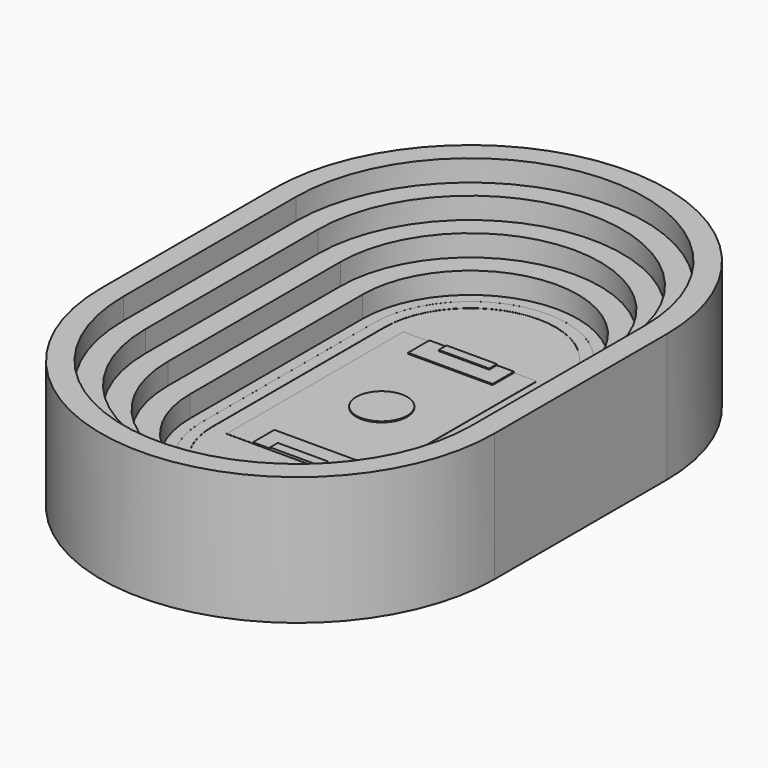
from build123d import *

# Parameters (mm, degrees)
F0_W      = 59.6899963813
F0_H      = 11.43
F1_DEPTH  = 53.34
F2_DEPTH  = 52.07
F3_DEPTH  = 50.8
F4_DEPTH  = 50.546
F5_DEPTH  = 50.7746
F6_DEPTH  = 50.799746
F7_DEPTH  = 76.2
F8_DEPTH  = 101.6
F9_DEPTH  = 127
F10_DEPTH = 152.4


with BuildPart() as f1:
    # F0 (on Top) → F1 (new body)
    with BuildSketch(Plane.XY):
        with Locations((22.1830820161, 160.0484472161)):
            Rectangle(F0_W, F0_H)
    extrude(amount=F1_DEPTH)


with BuildPart() as f1b:
    # F0 (on Top) → F1, piece 2 (new body)
    with BuildSketch(Plane.XY):
        Polygon((-7.6619161746, -84.705963729), (-7.6619161746, -96.135963729), (22.8180838254, -96.135963729), (52.0280802068, -96.135963729), (52.0280802068, -94.8659601103), (52.0280802068, -84.705963729), align=None)
    extrude(amount=F1_DEPTH)


with BuildPart() as f2:
    # F0 (on Top) → F2 (new body)
    with BuildSketch(Plane.XY):
        Polygon((-27.9819161746, -64.385963729), (-27.9819161746, -96.135963729), (-7.6619161746, -96.135963729), (-7.6619161746, -84.705963729), (52.0280802068, -84.705963729), (52.0280802068, -94.8659601103), (52.0280802068, -96.135963729), (67.8483322263, -96.135963729), (72.3480802068, -96.135963729), (72.3480802068, -64.385963729), align=None)
    extrude(amount=F2_DEPTH)


with BuildPart() as f2b:
    # F0 (on Top) → F2, piece 2 (new body)
    with BuildSketch(Plane.XY):
        Polygon((-7.6619161746, 165.7634472161), (-27.9819161746, 165.7634472161), (-27.9819161746, 134.0134472161), (72.3480802068, 134.0134472161), (72.3480802068, 165.7634472161), (52.0280802068, 165.7634472161), (52.0280802068, 154.3334472161), (-7.6619161746, 154.3334472161), align=None)
    extrude(amount=F2_DEPTH)


with BuildPart() as f2c:
    # F0 (on Top) → F2, piece 3 (new body)
    with BuildSketch(Plane.XY):
        with BuildLine():
            Line((50.3579524463, 34.8137417436), (-10.1172057288, 34.8137417436))
            ThreePointArc((-10.1172057288, 34.8137417436), (20.1203733588, 4.576162656), (50.3579524463, 34.8137417436))
        make_face()
        with BuildLine():
            ThreePointArc((50.3579524463, 34.8137417436), (20.1203733588, 65.0513208311), (-10.1172057288, 34.8137417436))
            Line((-10.1172057288, 34.8137417436), (50.3579524463, 34.8137417436))
        make_face()
    extrude(amount=F2_DEPTH)


with BuildPart() as f3:
    # F0 (on Top) → F3 (new body)
    with BuildSketch(Plane.XY):
        with BuildLine():
            Line((-27.9819161746, 165.7634472161), (-59.1609889327, 165.7634472161))
            Line((-59.1609889327, 165.7634472161), (-59.1609889327, 34.8137417436))
            Line((-59.1609889327, 34.8137417436), (-10.1172057288, 34.8137417436))
            ThreePointArc((-10.1172057288, 34.8137417436), (20.1203733588, 65.0513208311), (50.3579524463, 34.8137417436))
            Line((50.3579524463, 34.8137417436), (99.4017356502, 34.8137417436))
            Line((99.4017356502, 34.8137417436), (99.4017356502, 165.7634472161))
            Line((99.4017356502, 165.7634472161), (72.3480802068, 165.7634472161))
            Line((72.3480802068, 165.7634472161), (72.3480802068, 134.0134472161))
            Line((72.3480802068, 134.0134472161), (-27.9819161746, 134.0134472161))
            Line((-27.9819161746, 134.0134472161), (-27.9819161746, 165.7634472161))
        make_face()
        with BuildLine():
            Line((-10.1172057288, 34.8137417436), (-59.1609889327, 34.8137417436))
            Line((-59.1609889327, 34.8137417436), (-59.1609889327, -96.135963729))
            Line((-59.1609889327, -96.135963729), (-27.9819161746, -96.135963729))
            Line((-27.9819161746, -96.135963729), (-27.9819161746, -64.385963729))
            Line((-27.9819161746, -64.385963729), (72.3480802068, -64.385963729))
            Line((72.3480802068, -64.385963729), (72.3480802068, -96.135963729))
            Line((72.3480802068, -96.135963729), (99.4017356502, -96.135963729))
            Line((99.4017356502, -96.135963729), (99.4017356502, 34.8137417436))
            Line((99.4017356502, 34.8137417436), (50.3579524463, 34.8137417436))
            ThreePointArc((50.3579524463, 34.8137417436), (20.1203733588, 4.576162656), (-10.1172057288, 34.8137417436))
        make_face()
    extrude(amount=F3_DEPTH)


with BuildPart() as f4:
    # F0 (on Top) → F4 (new body)
    with BuildSketch(Plane.XY):
        with BuildLine():
            Line((124.1219758281, -93.1649838208), (124.1219758281, 162.7924673079))
            ThreePointArc((124.1219758281, 162.7924673079), (22.8180838254, 264.0963593106), (-78.4858081773, 162.7924673079))
            Line((-78.4858081773, 162.7924673079), (-78.4858081773, -93.1649838208))
            ThreePointArc((-78.4858081773, -93.1649838208), (22.8180838254, -194.4688758235), (124.1219758281, -93.1649838208))
        make_face()
        Polygon((-59.1609889327, 34.8137417436), (-59.1609889327, 165.7634472161), (-27.9819161746, 165.7634472161), (-7.6619161746, 165.7634472161), (52.0280802068, 165.7634472161), (72.3480802068, 165.7634472161), (99.4017356502, 165.7634472161), (99.4017356502, 34.8137417436), (99.4017356502, -96.135963729), (72.3480802068, -96.135963729), (67.8483322263, -96.135963729), (52.0280802068, -96.135963729), (22.8180838254, -96.135963729), (-7.6619161746, -96.135963729), (-27.9819161746, -96.135963729), (-59.1609889327, -96.135963729), align=None, mode=Mode.SUBTRACT)
    extrude(amount=F4_DEPTH)

    # F0 (on Top) → F5 (join)
    with BuildSketch(Plane.XY):
        with BuildLine():
            Line((137.3377131925, -93.1649838208), (137.3377131925, 162.7924673079))
            ThreePointArc((137.3377131925, 162.7924673079), (22.8180838254, 277.312096675), (-91.7015455416, 162.7924673079))
            Line((-91.7015455416, 162.7924673079), (-91.7015455416, -93.1649838208))
            ThreePointArc((-91.7015455416, -93.1649838208), (22.8180838254, -207.6846131878), (137.3377131925, -93.1649838208))
        make_face()
        with BuildLine():
            ThreePointArc((-78.4858081773, 162.7924673079), (22.8180838254, 264.0963593106), (124.1219758281, 162.7924673079))
            Line((124.1219758281, 162.7924673079), (124.1219758281, -93.1649838208))
            ThreePointArc((124.1219758281, -93.1649838208), (22.8180838254, -194.4688758235), (-78.4858081773, -93.1649838208))
            Line((-78.4858081773, -93.1649838208), (-78.4858081773, 162.7924673079))
        make_face(mode=Mode.SUBTRACT)
    extrude(amount=F5_DEPTH)

    # F0 (on Top) → F6 (join)
    with BuildSketch(Plane.XY):
        with BuildLine():
            Line((150.5534294362, -93.1649838208), (150.5534294362, 162.7924673079))
            ThreePointArc((150.5534294362, 162.7924673079), (22.8180838254, 290.5278129187), (-104.9172617853, 162.7924673079))
            Line((-104.9172617853, 162.7924673079), (-104.9172617853, -93.1649838208))
            ThreePointArc((-104.9172617853, -93.1649838208), (22.8180838254, -220.9003294315), (150.5534294362, -93.1649838208))
        make_face()
        with BuildLine():
            ThreePointArc((-91.7015455416, 162.7924673079), (22.8180838254, 277.312096675), (137.3377131925, 162.7924673079))
            Line((137.3377131925, 162.7924673079), (137.3377131925, -93.1649838208))
            ThreePointArc((137.3377131925, -93.1649838208), (22.8180838254, -207.6846131878), (-91.7015455416, -93.1649838208))
            Line((-91.7015455416, -93.1649838208), (-91.7015455416, 162.7924673079))
        make_face(mode=Mode.SUBTRACT)
    extrude(amount=F6_DEPTH)

    # F0 (on Top) → F7 (join)
    with BuildSketch(Plane.XY):
        with BuildLine():
            Line((176.9848796875, -93.1649838208), (176.9848796875, 162.7924673079))
            ThreePointArc((176.9848796875, 162.7924673079), (22.8180838254, 316.95926317), (-131.3487120367, 162.7924673079))
            Line((-131.3487120367, 162.7924673079), (-131.3487120367, -93.1649838208))
            ThreePointArc((-131.3487120367, -93.1649838208), (22.8180838254, -247.3317796829), (176.9848796875, -93.1649838208))
        make_face()
        with BuildLine():
            ThreePointArc((-104.9172617853, 162.7924673079), (22.8180838254, 290.5278129187), (150.5534294362, 162.7924673079))
            Line((150.5534294362, 162.7924673079), (150.5534294362, -93.1649838208))
            ThreePointArc((150.5534294362, -93.1649838208), (22.8180838254, -220.9003294315), (-104.9172617853, -93.1649838208))
            Line((-104.9172617853, -93.1649838208), (-104.9172617853, 162.7924673079))
        make_face(mode=Mode.SUBTRACT)
    extrude(amount=F7_DEPTH)

    # F0 (on Top) → F8 (join)
    with BuildSketch(Plane.XY):
        with BuildLine():
            Line((203.4163299388, -93.1649838208), (203.4163299388, 162.7924673079))
            ThreePointArc((203.4163299388, 162.7924673079), (22.8180838254, 343.3907134213), (-157.780162288, 162.7924673079))
            Line((-157.780162288, 162.7924673079), (-157.780162288, -93.1649838208))
            ThreePointArc((-157.780162288, -93.1649838208), (22.8180838254, -273.7632299342), (203.4163299388, -93.1649838208))
        make_face()
        with BuildLine():
            ThreePointArc((-131.3487120367, 162.7924673079), (22.8180838254, 316.95926317), (176.9848796875, 162.7924673079))
            Line((176.9848796875, 162.7924673079), (176.9848796875, -93.1649838208))
            ThreePointArc((176.9848796875, -93.1649838208), (22.8180838254, -247.3317796829), (-131.3487120367, -93.1649838208))
            Line((-131.3487120367, -93.1649838208), (-131.3487120367, 162.7924673079))
        make_face(mode=Mode.SUBTRACT)
    extrude(amount=F8_DEPTH)

    # F0 (on Top) → F9 (join)
    with BuildSketch(Plane.XY):
        with BuildLine():
            Line((229.8477889233, -93.1649838208), (229.8477889233, 162.7924673079))
            ThreePointArc((229.8477889233, 162.7924673079), (22.8180838254, 369.8221724058), (-184.2116212725, 162.7924673079))
            Line((-184.2116212725, 162.7924673079), (-184.2116212725, -93.1649838208))
            ThreePointArc((-184.2116212725, -93.1649838208), (22.8180838254, -300.1946889187), (229.8477889233, -93.1649838208))
        make_face()
        with BuildLine():
            ThreePointArc((-157.780162288, 162.7924673079), (22.8180838254, 343.3907134213), (203.4163299388, 162.7924673079))
            Line((203.4163299388, 162.7924673079), (203.4163299388, -93.1649838208))
            ThreePointArc((203.4163299388, -93.1649838208), (22.8180838254, -273.7632299342), (-157.780162288, -93.1649838208))
            Line((-157.780162288, -93.1649838208), (-157.780162288, 162.7924673079))
        make_face(mode=Mode.SUBTRACT)
    extrude(amount=F9_DEPTH)

    # F0 (on Top) → F10 (join)
    with BuildSketch(Plane.XY):
        with BuildLine():
            Line((256.2792391746, -93.1649838208), (256.2792391746, 162.7924673079))
            ThreePointArc((256.2792391746, 162.7924673079), (22.8180838254, 396.2536226571), (-210.6430715238, 162.7924673079))
            Line((-210.6430715238, 162.7924673079), (-210.6430715238, -93.1649838208))
            ThreePointArc((-210.6430715238, -93.1649838208), (22.8180838254, -326.62613917), (256.2792391746, -93.1649838208))
        make_face()
        with BuildLine():
            ThreePointArc((-184.2116212725, 162.7924673079), (22.8180838254, 369.8221724058), (229.8477889233, 162.7924673079))
            Line((229.8477889233, 162.7924673079), (229.8477889233, -93.1649838208))
            ThreePointArc((229.8477889233, -93.1649838208), (22.8180838254, -300.1946889187), (-184.2116212725, -93.1649838208))
            Line((-184.2116212725, -93.1649838208), (-184.2116212725, 162.7924673079))
        make_face(mode=Mode.SUBTRACT)
    extrude(amount=F10_DEPTH)


solid = Compound([f1.part, f1b.part, f2.part, f2b.part, f2c.part, f3.part, f4.part])
